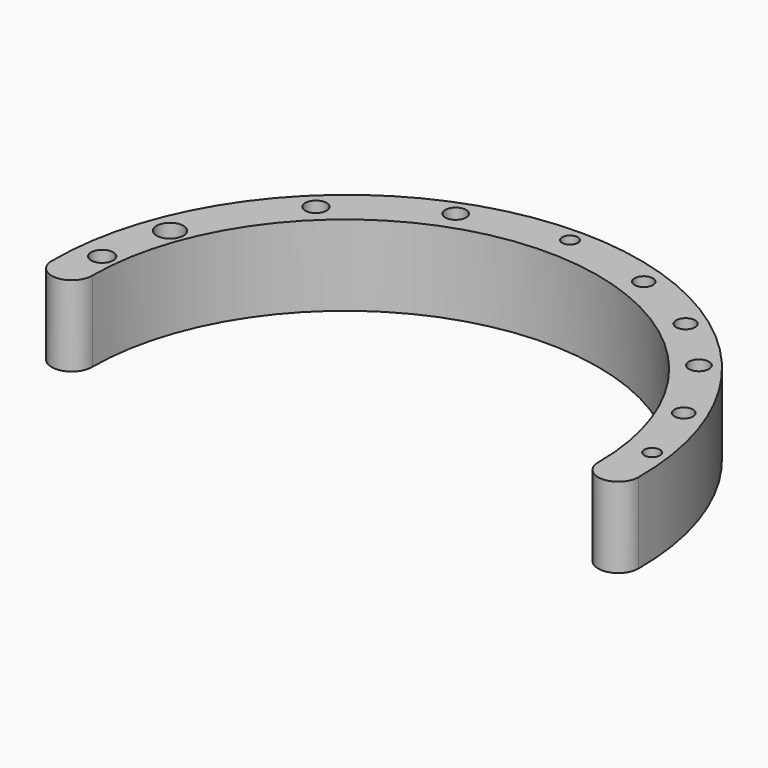
from build123d import *

# Parameters (mm, degrees)
F1_DEPTH = 10
F2_R     = 1.668671
F2_R_2   = 1.320826
F2_R_3   = 1.296735
F2_R_4   = 0.97061
F2_R_5   = 1.144867
F2_R_6   = 1.179532
F2_R_7   = 1.249101
F2_R_8   = 1.159586
F2_R_9   = 0.97119
F2_R_10  = 1.377756
F3_DEPTH = 5


with BuildPart() as f1:
    # F0 (on Top) → F1 (new body)
    with BuildSketch(Plane.XY):
        with BuildLine():
            ThreePointArc((0, 0), (31.437097, 31.437097), (62.874194, 0))
            ThreePointArc((62.874194, 0), (65.374194, -2.5), (67.874194, 0))
            ThreePointArc((67.874194, 0), (31.43786, 36.657312), (-4.998474, 0))
            ThreePointArc((-4.998474, 0), (-2.499237, -2.563051), (0, 0))
        make_face()
    extrude(amount=F1_DEPTH)

    # F2 (on face) → F3 (cut)
    with BuildSketch(Plane.XY.offset(10)):
        with Locations((0, 12.068116)):
            Circle(F2_R)
        with Locations((7.917486, 24.839498)):
            Circle(F2_R_2)
        with Locations((19.419642, 32.181229)):
            Circle(F2_R_3)
        with Locations((31.542715, 34.787837)):
            Circle(F2_R_4)
        with Locations((42.594474, 32.428086)):
            Circle(F2_R_5)
        with Locations((51.298656, 28.057063)):
            Circle(F2_R_6)
        with Locations((57.769693, 22.039674)):
            Circle(F2_R_7)
        with Locations((62.874194, 13.29884)):
            Circle(F2_R_8)
        with Locations((65.673366, 4.887626)):
            Circle(F2_R_9)
        with Locations((-1.773936, 3.746334)):
            Circle(F2_R_10)
    extrude(amount=-F3_DEPTH, mode=Mode.SUBTRACT)


solid = f1.part
